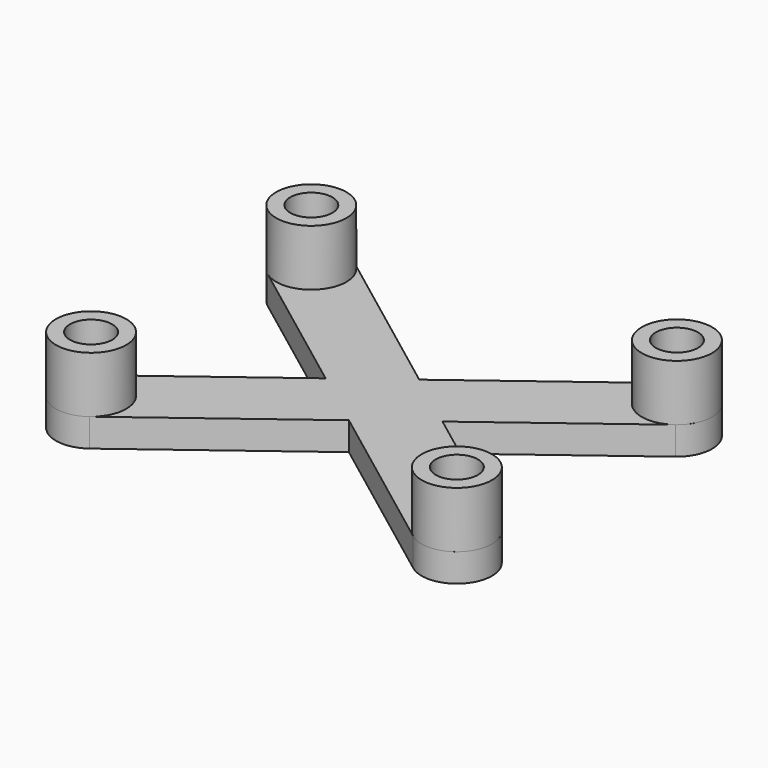
from build123d import *

# Parameters (mm, degrees)
SKETCH025_R      = 1.5
EXTRUDE027_DEPTH = 4
SKETCH026_R      = 2.5
EXTRUDE026_DEPTH = 4
EXTRUDE036_DEPTH = 2


with BuildPart() as extrude_mainboardcase_joystick_hole:
    # Sketch025 → Extrude027 (new body)
    with BuildSketch(Plane(origin=(53, 3, 0), x_dir=(1, 0, 0), z_dir=(0, 0, 1))):
        with Locations((-48, 19.88)):
            Circle(SKETCH025_R)
        with Locations((-21.99, 19.88)):
            Circle(SKETCH025_R)
        with Locations((-48.01, 0.31)):
            Circle(SKETCH025_R)
        with Locations((-21.99, 0.31)):
            Circle(SKETCH025_R)
    extrude(amount=EXTRUDE027_DEPTH)


with BuildPart() as link004:
    # Sketch026 → Extrude026 (new body)
    with BuildSketch(Plane.XY):
        with Locations((5, 22.88)):
            Circle(SKETCH026_R)
        with Locations((31.01, 22.88)):
            Circle(SKETCH026_R)
        with Locations((31.01, 3.31)):
            Circle(SKETCH026_R)
        with Locations((4.99, 3.31)):
            Circle(SKETCH026_R)
    extrude(amount=EXTRUDE026_DEPTH)

    # Cut001: cut Extrude_MainBoardCase_JoyStick_Hole
    add(extrude_mainboardcase_joystick_hole.part, mode=Mode.SUBTRACT)


with BuildPart() as link004_1:
    # Cut001 placement: moved
    add(link004.part.moved(Location((53, 5, 2))))


with BuildPart() as link004_2:
    # Link004 placement: moved
    add(link004_1.part.moved(Location((-53, -5, -2))))


with BuildPart() as obj1:
    # Sketch036 → Extrude036 (new body)
    with BuildSketch(Plane.XY):
        with BuildLine():
            ThreePointArc((6.50307, 24.877693), (3.002307, 24.38307), (3.49693, 20.882307))
            Line((3.49693, 20.882307), (13.843835, 13.097265))
            Line((13.843835, 13.097265), (3.487299, 5.307971))
            ThreePointArc((3.487299, 5.307971), (2.992029, 1.807299), (6.492701, 1.312029))
            Line((6.492701, 1.312029), (18.002212, 9.96849))
            Line((18.002212, 9.96849), (29.50693, 1.312307))
            ThreePointArc((29.50693, 1.312307), (33.007693, 1.80693), (32.51307, 5.307693))
            Line((32.51307, 5.307693), (22.161166, 13.096497))
            Line((22.161166, 13.096497), (32.512701, 20.882029))
            ThreePointArc((32.512701, 20.882029), (33.007971, 24.382701), (29.507299, 24.877971))
            Line((29.507299, 24.877971), (18.002789, 16.225271))
            Line((18.002789, 16.225271), (6.50307, 24.877693))
        make_face()
    extrude(amount=-EXTRUDE036_DEPTH)

    # Fusion009: union Link004
    add(link004_2.part)


solid = obj1.part
